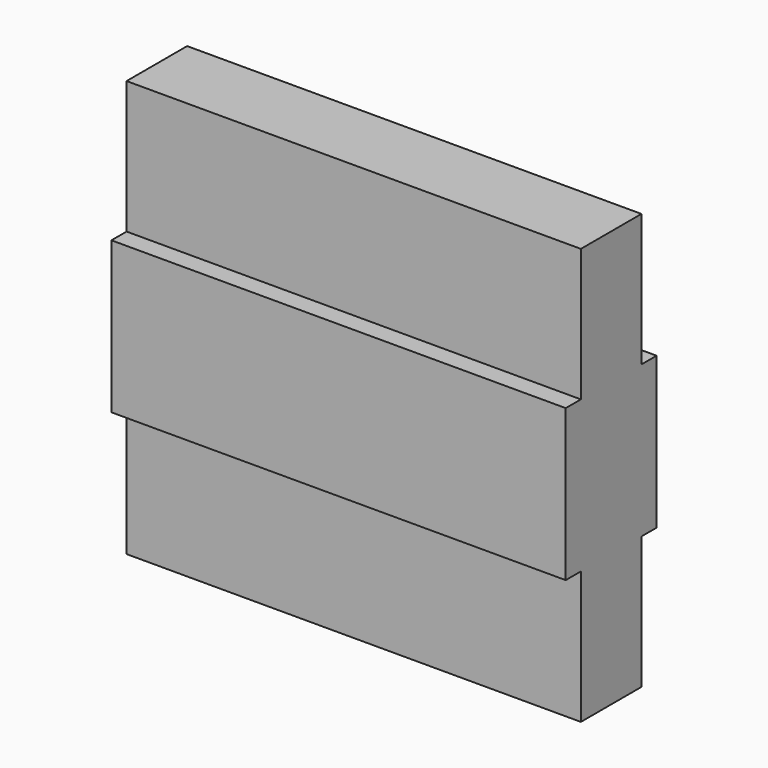
from build123d import *

# Parameters (mm, degrees)
F0_W     = 304.8
F0_H     = 101.6
F1_DEPTH = 38.1
F0_H_2   = 88.9
F2_DEPTH = 25.4


with BuildPart() as f1:
    # F0 (on Front) → F1 (new body, symmetric)
    with BuildSketch(Plane.XZ):
        Rectangle(F0_W, F0_H)
    extrude(amount=F1_DEPTH, both=True)

    # F0 (on Front) → F2 (join, symmetric)
    with BuildSketch(Plane.XZ):
        with Locations((0, 95.25)):
            Rectangle(F0_W, F0_H_2)
        with Locations((0, -95.25)):
            Rectangle(F0_W, F0_H_2)
    extrude(amount=F2_DEPTH, both=True)


solid = f1.part
